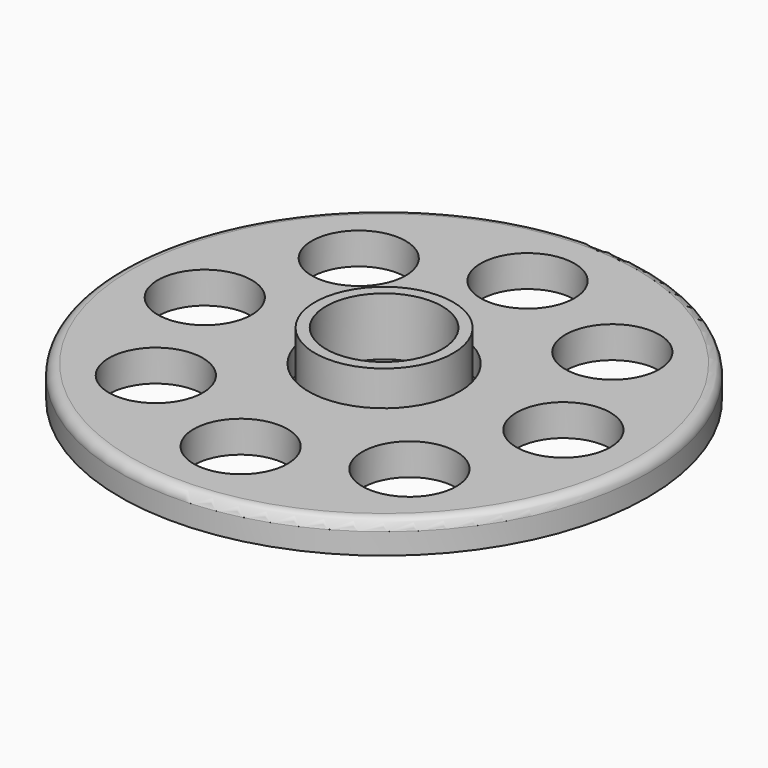
from build123d import *

# Parameters (mm, degrees)
F0_R     = 6.55
F0_R_2   = 5.5
F1_DEPTH = 6
F0_R_3   = 7.15
F2_DEPTH = 0.5
F0_R_4   = 25
F0_R_5   = 4.448453
F3_DEPTH = 3
F4_R     = 1


with BuildPart() as f1:
    # F0 (on Top) → F1 (new body)
    with BuildSketch(Plane.XY):
        Circle(F0_R)
        Circle(F0_R_2, mode=Mode.SUBTRACT)
    extrude(amount=F1_DEPTH)

    # F0 (on Top) → F2 (join)
    with BuildSketch(Plane.XY):
        Circle(F0_R_3)
        Circle(F0_R, mode=Mode.SUBTRACT)
        Circle(F0_R_2)
    extrude(amount=F2_DEPTH)

    # F0 (on Top) → F3 (join)
    with BuildSketch(Plane.XY):
        Circle(F0_R_4)
        with Locations((-12.009858, -12.009858)):
            Circle(F0_R_5, mode=Mode.SUBTRACT)
        with Locations((0, -16.984504)):
            Circle(F0_R_5, mode=Mode.SUBTRACT)
        with Locations((12.009858, -12.009858)):
            Circle(F0_R_5, mode=Mode.SUBTRACT)
        with Locations((-16.984504, 0)):
            Circle(F0_R_5, mode=Mode.SUBTRACT)
        with Locations((-12.009858, 12.009858)):
            Circle(F0_R_5, mode=Mode.SUBTRACT)
        Circle(F0_R_3, mode=Mode.SUBTRACT)
        with Locations((12.009858, 12.009858)):
            Circle(F0_R_5, mode=Mode.SUBTRACT)
        with Locations((16.984504, 0)):
            Circle(F0_R_5, mode=Mode.SUBTRACT)
        with Locations((0, 16.984504)):
            Circle(F0_R_5, mode=Mode.SUBTRACT)
    extrude(amount=F3_DEPTH)

    # F4
    f4_edges = [f1.edges().sort_by_distance(p)[0] for p in [
        (-25, 0, 3),
    ]]
    fillet(f4_edges, radius=F4_R)


solid = f1.part
